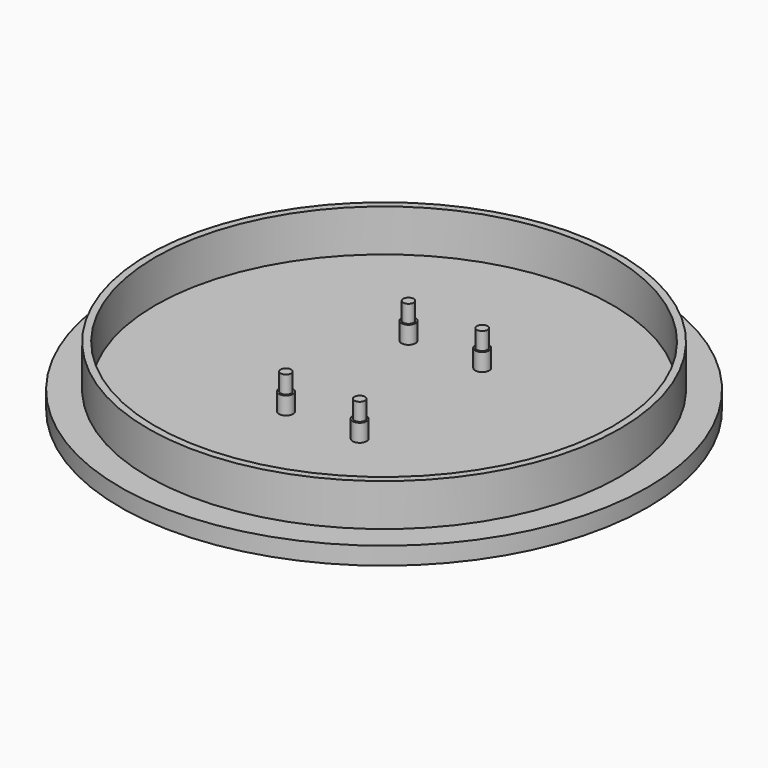
from build123d import *

# Parameters (mm, degrees)
F1_R     = 75
F1_R_2   = 67
F1_R_3   = 65
F1_W     = 25.57
F1_H     = 48.15
F1_R_4   = 2
F1_R_5   = 1.5
F2_DEPTH = 5
F3_DEPTH = 10
F4_DEPTH = 5
F5_DEPTH = 12


with BuildPart() as f2:
    # F1 (on Top) → F2 (new body)
    with BuildSketch(Plane.XY):
        Circle(F1_R)
        Circle(F1_R_2, mode=Mode.SUBTRACT)
        Circle(F1_R_2)
        Circle(F1_R_3, mode=Mode.SUBTRACT)
        Circle(F1_R_3)
        Rectangle(F1_W, F1_H, mode=Mode.SUBTRACT)
        Rectangle(F1_W, F1_H)
        with Locations((-10.475, -21.765)):
            Circle(F1_R_4, mode=Mode.SUBTRACT)
        with Locations((10.475, -21.765)):
            Circle(F1_R_4, mode=Mode.SUBTRACT)
        with Locations((-10.475, 21.765)):
            Circle(F1_R_4, mode=Mode.SUBTRACT)
        with Locations((10.475, 21.765)):
            Circle(F1_R_4, mode=Mode.SUBTRACT)
        with Locations((-10.475, 21.765)):
            Circle(F1_R_4)
        with Locations((-10.475, 21.765)):
            Circle(F1_R_5, mode=Mode.SUBTRACT)
        with Locations((-10.475, -21.765)):
            Circle(F1_R_4)
        with Locations((-10.475, -21.765)):
            Circle(F1_R_5, mode=Mode.SUBTRACT)
        with Locations((10.475, -21.765)):
            Circle(F1_R_4)
        with Locations((10.475, -21.765)):
            Circle(F1_R_5, mode=Mode.SUBTRACT)
        with Locations((10.475, 21.765)):
            Circle(F1_R_4)
        with Locations((10.475, 21.765)):
            Circle(F1_R_5, mode=Mode.SUBTRACT)
        with Locations((10.475, -21.765)):
            Circle(F1_R_5)
        with Locations((-10.475, 21.765)):
            Circle(F1_R_5)
        with Locations((10.475, 21.765)):
            Circle(F1_R_5)
        with Locations((-10.475, -21.765)):
            Circle(F1_R_5)
    extrude(amount=-F2_DEPTH)

    # F1 (on Top) → F3 (join)
    with BuildSketch(Plane.XY):
        with Locations((10.475, 21.765)):
            Circle(F1_R_5)
        with Locations((-10.475, 21.765)):
            Circle(F1_R_5)
        with Locations((10.475, -21.765)):
            Circle(F1_R_5)
        with Locations((-10.475, -21.765)):
            Circle(F1_R_5)
    extrude(amount=F3_DEPTH)

    # F1 (on Top) → F4 (join)
    with BuildSketch(Plane.XY):
        with Locations((10.475, 21.765)):
            Circle(F1_R_4)
        with Locations((10.475, 21.765)):
            Circle(F1_R_5, mode=Mode.SUBTRACT)
        with Locations((-10.475, 21.765)):
            Circle(F1_R_4)
        with Locations((-10.475, 21.765)):
            Circle(F1_R_5, mode=Mode.SUBTRACT)
        with Locations((-10.475, -21.765)):
            Circle(F1_R_4)
        with Locations((-10.475, -21.765)):
            Circle(F1_R_5, mode=Mode.SUBTRACT)
        with Locations((10.475, -21.765)):
            Circle(F1_R_4)
        with Locations((10.475, -21.765)):
            Circle(F1_R_5, mode=Mode.SUBTRACT)
    extrude(amount=F4_DEPTH)

    # F1 (on Top) → F5 (join)
    with BuildSketch(Plane.XY):
        Circle(F1_R_2)
        Circle(F1_R_3, mode=Mode.SUBTRACT)
    extrude(amount=F5_DEPTH)


solid = f2.part
